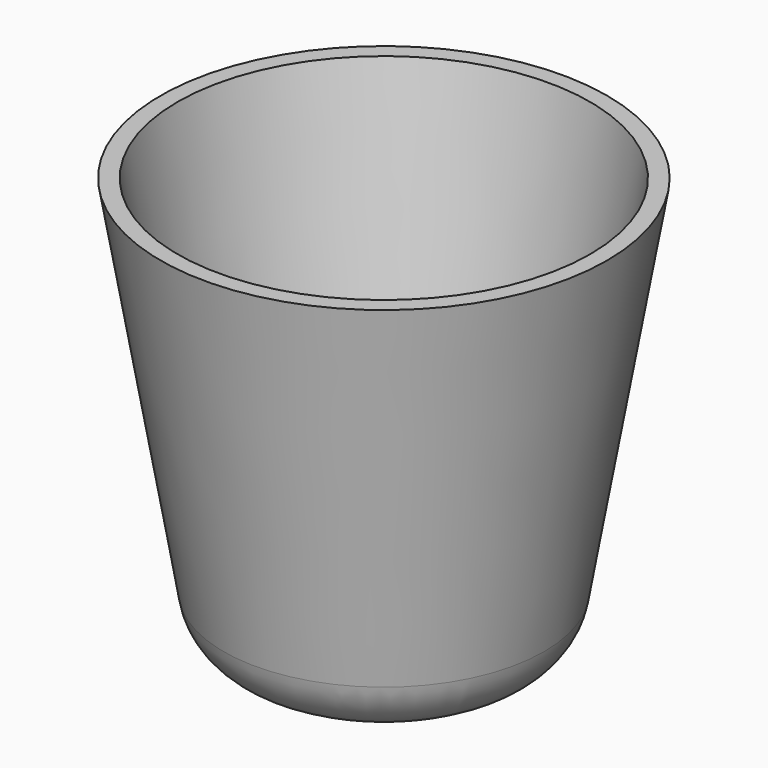
from build123d import *

# Parameters (mm, degrees)
F2_T = -2.5
F4_R = 2.5


with BuildPart() as f1:
    # F0 (on Front) → F1 (revolve)
    with BuildSketch(Plane.XZ):
        with BuildLine():
            ThreePointArc((13.84601, 0), (20.476051, 2.420071), (23.98807, 8.542155))
            Line((23.98807, 8.542155), (33.404892, 63.125353))
            Line((33.404892, 63.125353), (0, 63.125353))
            Line((0, 63.125353), (0, 0))
            Line((0, 0), (13.84601, 0))
        make_face()
    revolve(axis=Axis((0, 0, 30.873057), (0, 0, -1)))

    # F2
    f2_openings = [f1.faces().sort_by_distance(p)[0] for p in [
        (0, 0, 63.125353),
    ]]
    offset(amount=F2_T, openings=f2_openings)


with BuildPart() as f5:
    # F5: sweep along a path in F3
    with BuildLine(Plane.XZ) as f5_path:
        Line((25.372773, 17.402936), (44.32266, 35.468507))
        ThreePointArc((44.32266, 35.468507), (45.10088, 49.073565), (31.577616, 50.754206))
    # F4 (on Top) → F5 (sweep)
    with BuildSketch(Plane.XY):
        with Locations((58.820363, 16.743207)):
            Circle(F4_R)
    sweep(path=f5_path.line)


solid = f1.part
